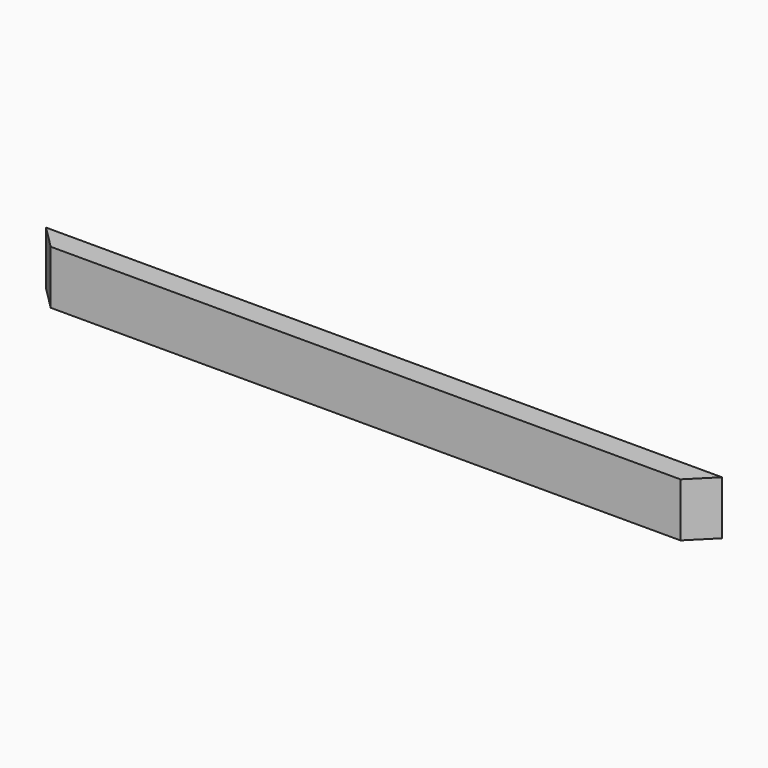
from build123d import *

# Parameters (mm, degrees)
F1_DEPTH = 88.9


with BuildPart() as f1:
    # F0 (on Top) → F1 (new body)
    with BuildSketch(Plane.XY):
        Polygon((-38.1, 0), (0, 38.1), (-1117.6, 38.1), (-1079.5, 0), align=None)
    extrude(amount=-F1_DEPTH)


solid = f1.part
